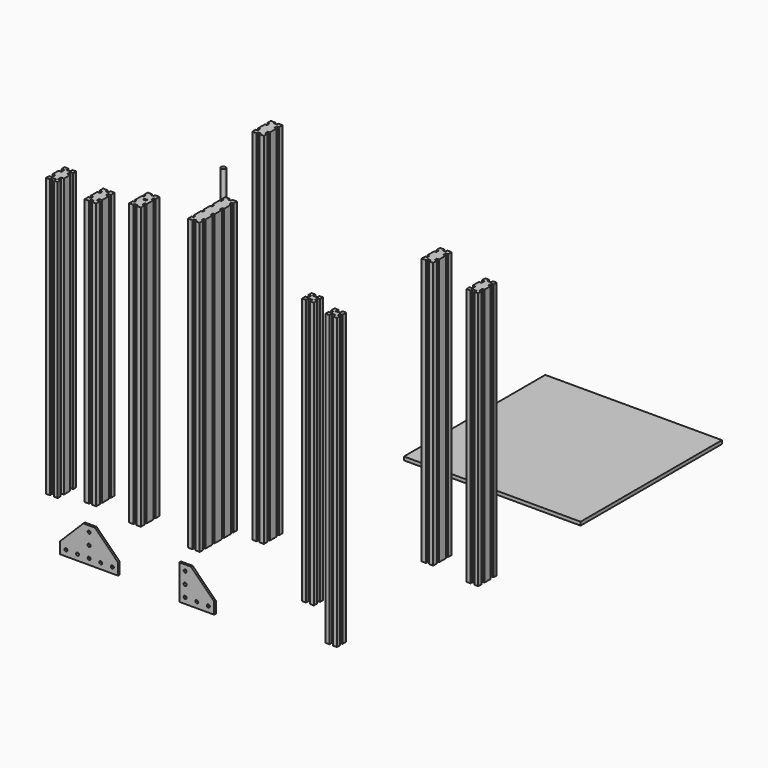
from build123d import *

# Parameters (mm, degrees)
F0_W      = 20
F0_H      = 500
F1_DEPTH  = 80
F2_W      = 20
F2_H      = 620
F3_DEPTH  = 40
F4_W      = 20
F4_H      = 460
F5_DEPTH  = 20
F6_W      = 20
F6_H      = 460
F7_DEPTH  = 40
F8_W      = 20
F8_H      = 500
F9_DEPTH  = 20
F10_W     = 20
F10_H     = 480
F11_DEPTH = 40
F12_W     = 20
F12_H     = 460
F13_DEPTH = 40
F14_R     = 4
F15_DEPTH = 500
F16_W     = 304.8
F16_H     = 304.8
F17_DEPTH = 6
F18_W     = 20
F18_H     = 485
F19_DEPTH = 40
F20_W     = 20
F20_H     = 445
F21_DEPTH = 40
F23_DEPTH = 900
F24_W     = 3.0702903965
F24_H     = 4.6846530236
F24_W_2   = 4.8729544505
F24_H_2   = 3.0512367375
F25_DEPTH = 999
F26_W     = 3.5341255955
F26_H     = 5.1209558547
F26_H_2   = 0.1837653294
F26_W_2   = 5.100697279
F26_H_3   = 3.1549392734
F27_DEPTH = 999
F28_W     = 4.9261599779
F28_H     = 2.8534543235
F28_W_2   = 3.3992424258
F28_H_2   = 4.8115970567
F28_W_3   = 2.8534543235
F28_H_3   = 4.9261599779
F28_W_4   = 4.8115970567
F28_H_4   = 3.3992424258
F29_DEPTH = 999
F30_W     = 4.585981369
F30_H     = 4.5410143211
F30_W_2   = 5.1307412995
F30_H_2   = 4.45495639
F30_W_3   = 4.911125599
F31_DEPTH = 999
F32_W     = 6.949275732
F32_H     = 4.8751044087
F32_W_2   = 4.1992914664
F32_H_2   = 6.1474256217
F32_H_3   = 5.5028381571
F32_W_3   = 4.84224558
F33_DEPTH = 999
F34_W     = 7.0828944445
F34_H     = 5.810582079
F34_W_2   = 3.7896415346
F34_H_2   = 5.2119493484
F34_W_3   = 6.147429347
F34_H_3   = 5.5028381571
F34_W_4   = 4.3164304144
F34_H_4   = 5.3455876186
F35_DEPTH = 999
F36_W     = 4.9647092819
F36_H     = 3.9015670773
F36_W_2   = 3.546962738
F36_H_2   = 4.8340586945
F36_W_3   = 3.7799572945
F36_H_3   = 4.0891253948
F37_DEPTH = 999
F38_W     = 6.6462159157
F38_H     = 4.3338257819
F38_W_2   = 3.6739100679
F38_H_2   = 6.8539013155
F38_W_3   = 4.6952269809
F39_DEPTH = 999
F40_R     = 2.6
F41_DEPTH = 3.5
F42_R     = 2.6
F43_DEPTH = 3.5


with BuildPart() as f1:
    # F0 (on Front) → F1 (new body)
    with BuildSketch(Plane.XZ):
        with Locations((-11.7970947176, 238.8208222745)):
            Rectangle(F0_W, F0_H)
    extrude(amount=F1_DEPTH)

    # F24 (on face) → F25 (cut)
    with BuildSketch(Plane.XY.offset(488.8208222745)):
        with Locations((-3.3322399159, -30.0611649256)):
            Rectangle(F24_W, F24_H)
        with Locations((-3.3322399159, -9.9388350744)):
            Rectangle(F24_W, F24_H)
        with Locations((-20.2619495194, -9.9388350744)):
            Rectangle(F24_W, F24_H)
        with Locations((-20.2619495194, -30.0611649256)):
            Rectangle(F24_W, F24_H)
        with Locations((-11.7521244101, -1.5256183688)):
            Rectangle(F24_W_2, F24_H_2)
        with Locations((-11.7521244101, -78.4743816312)):
            Rectangle(F24_W_2, F24_H_2)
        with Locations((-3.3322399159, -49.9388350744)):
            Rectangle(F24_W, F24_H)
        with Locations((-20.2619495194, -70.0611649256)):
            Rectangle(F24_W, F24_H)
        with Locations((-3.3322399159, -70.0611649256)):
            Rectangle(F24_W, F24_H)
        with Locations((-20.2619495194, -49.9388350744)):
            Rectangle(F24_W, F24_H)
    extrude(amount=-F25_DEPTH, mode=Mode.SUBTRACT)


with BuildPart() as f3:
    # F2 (on Front) → F3 (new body)
    with BuildSketch(Plane.XZ):
        with Locations((66.9815244369, 320.2383960038)):
            Rectangle(F2_W, F2_H)
    extrude(amount=F3_DEPTH)

    # F26 (on face) → F27 (cut)
    with BuildSketch(Plane.XY.offset(630.2383960038)):
        with Locations((75.2144616392, -10)):
            Rectangle(F26_W, F26_H)
        with Locations((75.2144616392, -7.347639408)):
            Rectangle(F26_W, F26_H_2)
        with Locations((75.2144616392, -12.652360592)):
            Rectangle(F26_W, F26_H_2)
        with Locations((67.1225339174, -1.5774696367)):
            Rectangle(F26_W_2, F26_H_3)
        with Locations((58.7485872347, -12.652360592)):
            Rectangle(F26_W, F26_H_2)
        with Locations((58.7485872347, -10)):
            Rectangle(F26_W, F26_H)
        with Locations((58.7485872347, -7.347639408)):
            Rectangle(F26_W, F26_H_2)
        with Locations((75.2144616392, -27.347639408)):
            Rectangle(F26_W, F26_H_2)
        with Locations((75.2144616392, -30)):
            Rectangle(F26_W, F26_H)
        with Locations((75.2144616392, -32.652360592)):
            Rectangle(F26_W, F26_H_2)
        with Locations((58.7485872347, -32.652360592)):
            Rectangle(F26_W, F26_H_2)
        with Locations((58.7485872347, -30)):
            Rectangle(F26_W, F26_H)
        with Locations((58.7485872347, -27.347639408)):
            Rectangle(F26_W, F26_H_2)
        with Locations((67.1225339174, -38.4225303633)):
            Rectangle(F26_W_2, F26_H_3)
    extrude(amount=-F27_DEPTH, mode=Mode.SUBTRACT)


with BuildPart() as f5:
    # F4 (on Front) → F5 (new body)
    with BuildSketch(Plane.XZ):
        with Locations((137.1042287337, 161.5130002797)):
            Rectangle(F4_W, F4_H)
    extrude(amount=F5_DEPTH)

    # F32 (on face) → F33 (cut)
    with BuildSketch(Plane.XY.offset(391.5130002797)):
        with Locations((137.1584236622, -2.4375522044)):
            Rectangle(F32_W, F32_H)
        with Locations((145.0045830005, -9.8197730258)):
            Rectangle(F32_W_2, F32_H_2)
        with Locations((137.1584236622, -17.2485809214)):
            Rectangle(F32_W, F32_H_3)
        with Locations((129.5253515237, -9.8197730258)):
            Rectangle(F32_W_3, F32_H_2)
    extrude(amount=-F33_DEPTH, mode=Mode.SUBTRACT)


with BuildPart() as f7:
    # F6 (on Front) → F7 (new body)
    with BuildSketch(Plane.XZ):
        with Locations((359.0830266476, 302.3216611984)):
            Rectangle(F6_W, F6_H)
    extrude(amount=F7_DEPTH)

    # F36 (on face) → F37 (cut)
    with BuildSketch(Plane.XY.offset(532.3216611984)):
        with Locations((359.1624796391, -1.9507835386)):
            Rectangle(F36_W, F36_H)
        with Locations((350.8565080166, -10.2381040342)):
            Rectangle(F36_W_2, F36_H_2)
        with Locations((367.1930480003, -10.2381040342)):
            Rectangle(F36_W_3, F36_H_2)
        with Locations((359.1624796391, -37.9554373026)):
            Rectangle(F36_W, F36_H_3)
        with Locations((367.1930480003, -29.7618959658)):
            Rectangle(F36_W_3, F36_H_2)
        with Locations((350.8565080166, -29.7618959658)):
            Rectangle(F36_W_2, F36_H_2)
    extrude(amount=-F37_DEPTH, mode=Mode.SUBTRACT)


with BuildPart() as f9:
    # F8 (on Front) → F9 (new body)
    with BuildSketch(Plane.XZ):
        with Locations((177.0537629478, 131.2779560685)):
            Rectangle(F8_W, F8_H)
    extrude(amount=F9_DEPTH)

    # F34 (on face) → F35 (cut)
    with BuildSketch(Plane.XY.offset(381.2779560685)):
        with Locations((176.9162341952, -2.9052910395)):
            Rectangle(F34_W, F34_H)
        with Locations((185.1589421805, -10.5547914281)):
            Rectangle(F34_W_2, F34_H_2)
        with Locations((176.983051002, -17.2485809214)):
            Rectangle(F34_W_3, F34_H_3)
        with Locations((169.211978155, -10.7552506961)):
            Rectangle(F34_W_4, F34_H_4)
    extrude(amount=-F35_DEPTH, mode=Mode.SUBTRACT)


with BuildPart() as f11:
    # F10 (on Front) → F11 (new body)
    with BuildSketch(Plane.XZ):
        with Locations((-288.8590801241, 204.2317036539)):
            Rectangle(F10_W, F10_H)
    extrude(amount=F11_DEPTH)

    # F22 (on face) → F23 (cut)
    with BuildSketch(Plane.XY.offset(444.2317036539)):
        Polygon((-278.8590801241, -10), (-278.8590801241, -6.6109513864), (-283.8590801241, -6.6109513864), (-283.8590801241, -10), (-283.8590801241, -13.3890486136), (-278.8590801241, -13.3890486136), align=None)
        Polygon((-278.8590801241, -30), (-278.8590801241, -26.6109513864), (-283.8590801241, -26.6109513864), (-283.8590801241, -30), (-283.8590801241, -33.3890486136), (-278.8590801241, -33.3890486136), align=None)
        Polygon((-298.8590801241, -10), (-298.8590801241, -13.3890486136), (-293.8590801241, -13.3890486136), (-293.8590801241, -10), (-293.8590801241, -6.6109513864), (-298.8590801241, -6.6109513864), align=None)
        Polygon((-293.8590801241, -26.6109513864), (-298.8590801241, -26.6109513864), (-298.8590801241, -30), (-298.8590801241, -33.3890486136), (-293.8590801241, -33.3890486136), (-293.8590801241, -30), align=None)
        Polygon((-285.4700315105, -5), (-285.4700315105, 0), (-288.8590801241, 0), (-292.2481287377, 0), (-292.2481287377, -5), (-288.8590801241, -5), align=None)
        Polygon((-285.4700315105, -35), (-288.8590801241, -35), (-292.2481287377, -35), (-292.2481287377, -40), (-288.8590801241, -40), (-285.4700315105, -40), align=None)
    extrude(amount=-F23_DEPTH, mode=Mode.SUBTRACT)


with BuildPart() as f13:
    # F12 (on Front) → F13 (new body)
    with BuildSketch(Plane.XZ):
        with Locations((-222.382790147, 203.3892665058)):
            Rectangle(F12_W, F12_H)
    extrude(amount=F13_DEPTH)

    # F30 (on face) → F31 (cut)
    with BuildSketch(Plane.XY.offset(433.3892665058)):
        with Locations((-222.2960591316, -2.2705071606)):
            Rectangle(F30_W, F30_H)
        with Locations((-214.9481607967, -10.437279474)):
            Rectangle(F30_W_2, F30_H_2)
        with Locations((-229.9272273474, -10.437279474)):
            Rectangle(F30_W_3, F30_H_2)
        with Locations((-214.9481607967, -29.562720526)):
            Rectangle(F30_W_2, F30_H_2)
        with Locations((-222.2960591316, -37.7294928394)):
            Rectangle(F30_W, F30_H)
        with Locations((-229.9272273474, -29.562720526)):
            Rectangle(F30_W_3, F30_H_2)
    extrude(amount=-F31_DEPTH, mode=Mode.SUBTRACT)


with BuildPart() as f15:
    # F14 (on Top) → F15 (new body)
    with BuildSketch(Plane.XY):
        with Locations((-63.8074055314, 48.4333969653)):
            Circle(F14_R)
    extrude(amount=F15_DEPTH)


with BuildPart() as f17:
    # F16 (on Top) → F17 (new body)
    with BuildSketch(Plane.XY):
        with Locations((212.0395678818, 436.1447431706)):
            Rectangle(F16_W, F16_H)
    extrude(amount=F17_DEPTH)


with BuildPart() as f19:
    # F18 (on Front) → F19 (new body)
    with BuildSketch(Plane.XZ):
        with Locations((-145.4484662763, 209.7988001257)):
            Rectangle(F18_W, F18_H)
    extrude(amount=F19_DEPTH)

    # F28 (on face) → F29 (cut)
    with BuildSketch(Plane.XY.offset(452.2988001257)):
        with Locations((-145.435012877, -1.4267271617)):
            Rectangle(F28_W, F28_H)
        with Locations((-137.1480874892, -10.4145347141)):
            Rectangle(F28_W_2, F28_H_2)
        with Locations((-154.0217391145, -10.0134533993)):
            Rectangle(F28_W_3, F28_H_3)
        with Locations((-145.0339315622, -18.3003787871)):
            Rectangle(F28_W_4, F28_H_4)
        with Locations((-145.435012877, -38.5732728383)):
            Rectangle(F28_W, F28_H)
        with Locations((-154.0217391145, -29.9865466007)):
            Rectangle(F28_W_3, F28_H_3)
        with Locations((-137.1480874892, -29.5854652859)):
            Rectangle(F28_W_2, F28_H_2)
    extrude(amount=-F29_DEPTH, mode=Mode.SUBTRACT)


with BuildPart() as f21:
    # F20 (on Front) → F21 (new body)
    with BuildSketch(Plane.XZ):
        with Locations((436.7491199239, 288.8839424253)):
            Rectangle(F20_W, F20_H)
    extrude(amount=F21_DEPTH)

    # F38 (on face) → F39 (cut)
    with BuildSketch(Plane.XY.offset(511.3839424253)):
        with Locations((436.8444085121, -2.166912891)):
            Rectangle(F38_W, F38_H)
        with Locations((444.91216489, -10.0454117637)):
            Rectangle(F38_W_2, F38_H_2)
        with Locations((429.0967334143, -10.0454117637)):
            Rectangle(F38_W_3, F38_H_2)
        with Locations((429.0967334143, -29.9545882363)):
            Rectangle(F38_W_3, F38_H_2)
        with Locations((436.8444085121, -37.833087109)):
            Rectangle(F38_W, F38_H)
        with Locations((444.91216489, -29.9545882363)):
            Rectangle(F38_W_2, F38_H_2)
    extrude(amount=-F39_DEPTH, mode=Mode.SUBTRACT)


with BuildPart() as f41:
    # F40 (on Front) → F41 (new body)
    with BuildSketch(Plane.XZ):
        Polygon((-78.0691450834, -89.4133490813), (-98.0691450834, -89.4133490813), (-98.0691450834, -149.4133490813), (-78.0691450834, -149.4133490813), (-38.0691450834, -149.4133490813), (-38.0691450834, -129.4133490813), align=None)
        with Locations((-88.0691450834, -139.4133490813)):
            Circle(F40_R, mode=Mode.SUBTRACT)
        with Locations((-68.0691450834, -139.4133490813)):
            Circle(F40_R, mode=Mode.SUBTRACT)
        with Locations((-88.0691450834, -119.4133490813)):
            Circle(F40_R, mode=Mode.SUBTRACT)
        with Locations((-48.0691450834, -139.4133490813)):
            Circle(F40_R, mode=Mode.SUBTRACT)
        with Locations((-88.0691450834, -99.4133490813)):
            Circle(F40_R, mode=Mode.SUBTRACT)
    extrude(amount=F41_DEPTH)


with BuildPart() as f43:
    # F42 (on Front) → F43 (new body)
    with BuildSketch(Plane.XZ):
        Polygon((-243.7554780706, -84.078880039), (-263.7554780706, -84.078880039), (-303.7554780706, -124.078880039), (-303.7554780706, -144.078880039), (-263.7554780706, -144.078880039), (-203.7554780706, -144.078880039), (-203.7554780706, -124.078880039), align=None)
        with Locations((-293.7554780706, -134.078880039)):
            Circle(F42_R, mode=Mode.SUBTRACT)
        with Locations((-273.7554780706, -134.078880039)):
            Circle(F42_R, mode=Mode.SUBTRACT)
        with Locations((-253.7554780706, -134.078880039)):
            Circle(F42_R, mode=Mode.SUBTRACT)
        with Locations((-233.7554780706, -134.078880039)):
            Circle(F42_R, mode=Mode.SUBTRACT)
        with Locations((-213.7554780706, -134.078880039)):
            Circle(F42_R, mode=Mode.SUBTRACT)
        with Locations((-253.7554780706, -114.078880039)):
            Circle(F42_R, mode=Mode.SUBTRACT)
        with Locations((-253.7554780706, -94.078880039)):
            Circle(F42_R, mode=Mode.SUBTRACT)
    extrude(amount=F43_DEPTH)


solid = Compound([f1.part, f3.part, f5.part, f7.part, f9.part, f11.part, f13.part, f15.part, f17.part, f19.part, f21.part, f41.part, f43.part])
